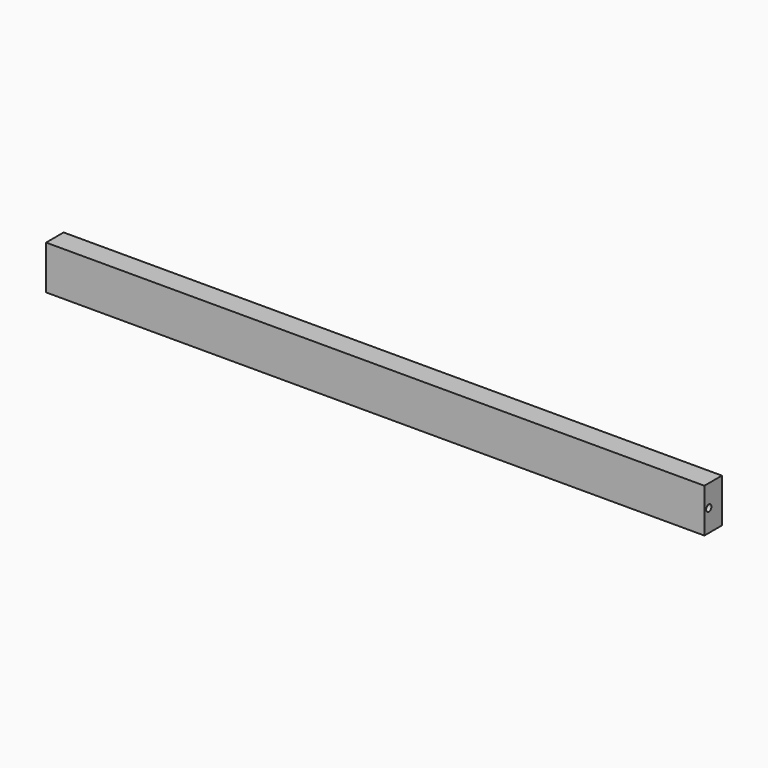
from build123d import *

# Parameters (mm, degrees)
F0_W     = 600
F0_H     = 40
F1_DEPTH = 20
F2_R     = 3
F3_DEPTH = 12
F4_R     = 3
F5_DEPTH = 12


with BuildPart() as f1:
    # F0 (on Front) → F1 (new body)
    with BuildSketch(Plane.XZ):
        with Locations((176.711192, 59.176866)):
            Rectangle(F0_W, F0_H)
    extrude(amount=F1_DEPTH)

    # F2 (on face) → F3 (cut)
    with BuildSketch(Plane.YZ.offset(476.711192)):
        with Locations((-15, 59.176866)):
            Circle(F2_R)
    extrude(amount=-F3_DEPTH, mode=Mode.SUBTRACT)

    # F4 (on face) → F5 (cut)
    with BuildSketch(Plane(origin=(-123.288808, 0, 0), x_dir=(0, -1, 0), z_dir=(-1, 0, 0))):
        with Locations((14, 59.176866)):
            Circle(F4_R)
    extrude(amount=-F5_DEPTH, mode=Mode.SUBTRACT)


solid = f1.part
